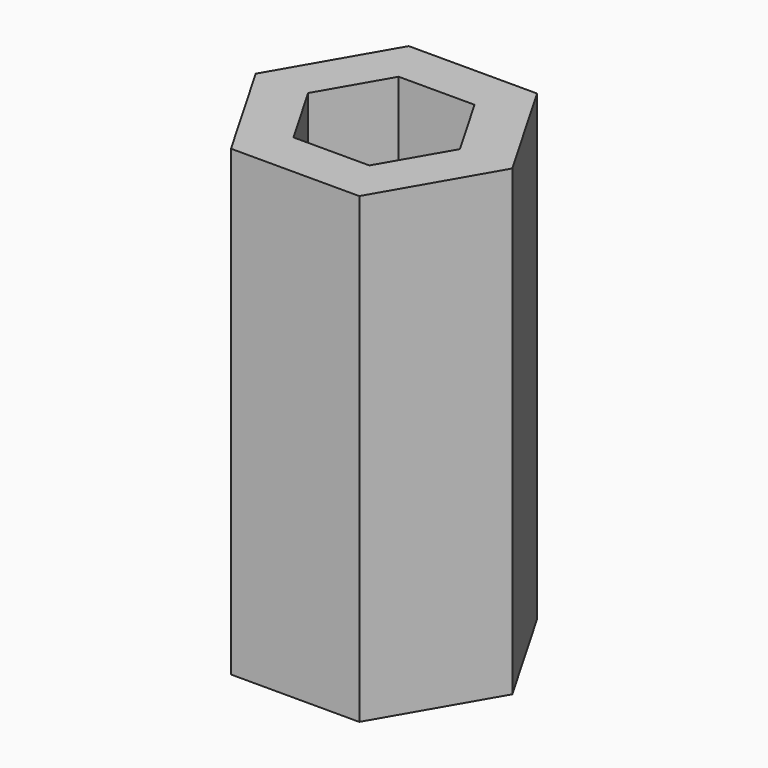
from build123d import *

# Parameters (mm, degrees)
F1_DEPTH = 25
F3_DEPTH = 2


with BuildPart() as f1:
    # F0 (on Top) → F1 (new body)
    with BuildSketch(Plane.XY):
        Polygon((-3.464102, -6), (3.464102, -6), (6.928203, 0), (3.464102, 6), (-3.464102, 6), (-6.928203, 0), align=None)
        Polygon((-4.099187, 0), (-2.049593, 3.55), (2.049593, 3.55), (4.099187, 0), (2.049593, -3.55), (-2.049593, -3.55), align=None, mode=Mode.SUBTRACT)
    extrude(amount=F1_DEPTH)


with BuildPart() as f3:
    # F2 (on Top) → F3 (new body)
    with BuildSketch(Plane.XY):
        Polygon((-2.04967, -3.550132), (2.04967, -3.550132), (4.099339, 0), (2.04967, 3.550132), (-2.04967, 3.550132), (-4.099339, 0), align=None)
    extrude(amount=F3_DEPTH)


solid = Compound([f1.part, f3.part])
